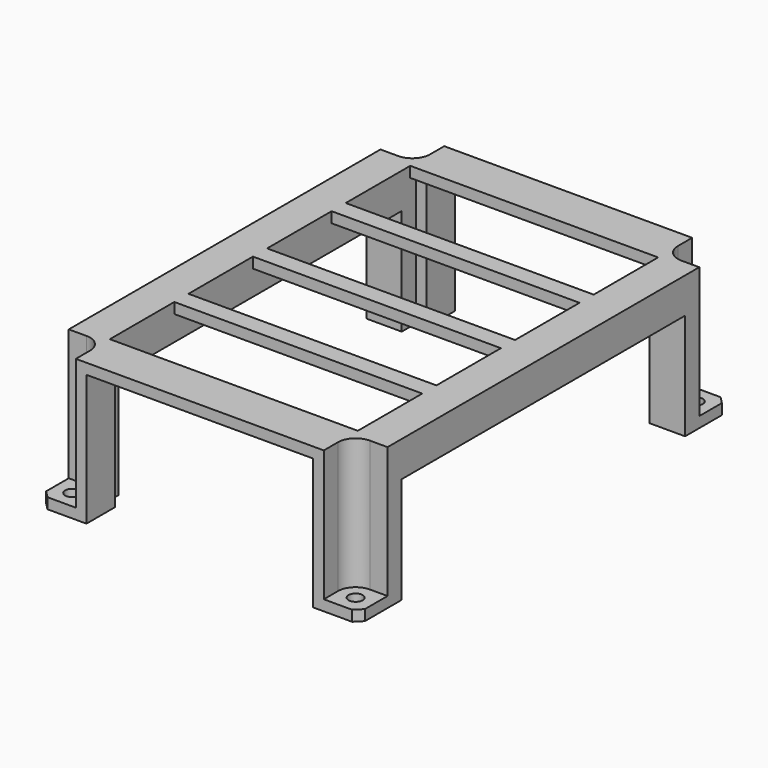
from build123d import *

# Parameters (mm, degrees)
SKETCH_W        = 90
SKETCH_H        = 130
SKETCH_R        = 2
PAD_DEPTH       = 40
POCKET_DEPTH    = 37
SKETCH002_W     = 70
SKETCH002_H     = 110
POCKET001_DEPTH = 37
SKETCH003_W     = 64
SKETCH003_H     = 37
POCKET002_DEPTH = 10
SKETCH004_W     = 70
SKETCH004_H     = 22.75
POCKET003_DEPTH = 3
CHAMFER_SIZE    = 2
SKETCH005_W     = 100
SKETCH005_H     = 30
POCKET004_DEPTH = 90.001
SKETCH006_W     = 64
SKETCH006_H     = 37
POCKET005_DEPTH = 10


with BuildPart() as part:
    # Sketch → Pad (new body)
    with BuildSketch(Plane.XY):
        with Locations((45, 65)):
            Rectangle(SKETCH_W, SKETCH_H)
        with Locations((5, 125)):
            Circle(SKETCH_R, mode=Mode.SUBTRACT)
        with Locations((85, 125)):
            Circle(SKETCH_R, mode=Mode.SUBTRACT)
        with Locations((85, 5)):
            Circle(SKETCH_R, mode=Mode.SUBTRACT)
        with Locations((5, 5)):
            Circle(SKETCH_R, mode=Mode.SUBTRACT)
    extrude(amount=PAD_DEPTH)

    # Sketch001 (on Face10 of Pad) → Pocket (cut)
    with BuildSketch(Plane.XY.offset(40)):
        with BuildLine():
            ThreePointArc((5, 120), (8.535534, 121.464466), (10, 125))
            Line((10, 125), (10, 130))
            Line((10, 130), (0, 130))
            Line((0, 130), (0, 120))
            Line((5, 120), (0, 120))
        make_face()
        with BuildLine():
            Line((80, 125), (80, 130))
            Line((80, 130), (90, 130))
            Line((90, 130), (90, 120))
            Line((90, 120), (85, 120))
            ThreePointArc((80, 125), (81.464466, 121.464466), (85, 120))
        make_face()
        with BuildLine():
            Line((80, 5), (80, 0))
            Line((80, 0), (90, 0))
            Line((90, 0), (90, 10))
            Line((90, 10), (85, 10))
            ThreePointArc((85, 10), (81.464466, 8.535534), (80, 5))
        make_face()
        with BuildLine():
            Line((0, 10), (0, 0))
            Line((0, 0), (10, 0))
            Line((10, 0), (10, 5))
            ThreePointArc((10, 5), (8.535534, 8.535534), (5, 10))
            Line((0, 10), (5, 10))
        make_face()
    extrude(amount=-POCKET_DEPTH, mode=Mode.SUBTRACT)

    # Sketch002 (on Face2 of Pocket) → Pocket001 (cut)
    with BuildSketch(Plane(origin=(0, 0, 0), x_dir=(1, 0, 0), z_dir=(0, 0, -1))):
        with Locations((45, -65)):
            Rectangle(SKETCH002_W, SKETCH002_H)
    extrude(amount=-POCKET001_DEPTH, mode=Mode.SUBTRACT)

    # Sketch003 (on Face1 of Pocket001) → Pocket002 (cut)
    with BuildSketch(Plane.XZ):
        with Locations((45, 18.5)):
            Rectangle(SKETCH003_W, SKETCH003_H)
    extrude(amount=-POCKET002_DEPTH, mode=Mode.SUBTRACT)

    # Sketch004 (on Face9 of Pocket002) → Pocket003 (cut)
    with BuildSketch(Plane.XY.offset(40)):
        with Locations((45, 106.625)):
            Rectangle(SKETCH004_W, SKETCH004_H)
        with Locations((45, 78.875)):
            Rectangle(SKETCH004_W, SKETCH004_H)
        with Locations((45, 23.375)):
            Rectangle(SKETCH004_W, SKETCH004_H)
        with Locations((45, 51.125)):
            Rectangle(SKETCH004_W, SKETCH004_H)
    extrude(amount=-POCKET003_DEPTH, mode=Mode.SUBTRACT)

    # Chamfer
    chamfer_edges = [part.edges().sort_by_distance(p)[0] for p in [
        (90, 0, 1.5),
        (90, 130, 1.5),
        (0, 0, 1.5),
        (0, 130, 1.5),
    ]]
    chamfer(chamfer_edges, length=CHAMFER_SIZE)

    # Sketch005 (on Face13 of Chamfer) → Pocket004 (cut, through all)
    with BuildSketch(Plane(origin=(0, 0, 0), x_dir=(0, -1, 0), z_dir=(-1, 0, 0))):
        with Locations((-65, 15)):
            Rectangle(SKETCH005_W, SKETCH005_H)
    extrude(amount=-POCKET004_DEPTH, mode=Mode.SUBTRACT)

    # Sketch006 (on Face31 of Pocket004) → Pocket005 (cut)
    with BuildSketch(Plane(origin=(0, 130, 0), x_dir=(-1, 0, 0), z_dir=(0, 1, 0))):
        with Locations((-45, 18.5)):
            Rectangle(SKETCH006_W, SKETCH006_H)
    extrude(amount=-POCKET005_DEPTH, mode=Mode.SUBTRACT)


solid = part.part
